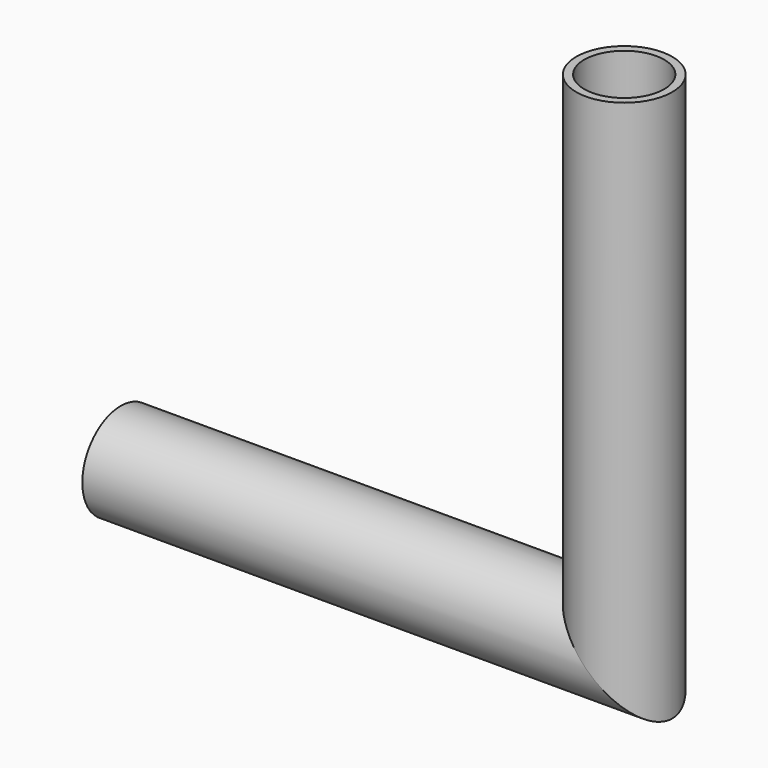
from build123d import *

# Parameters (mm, degrees)
F0_R = 4.7625
F1_R = 3.96875


with BuildPart() as f3:
    # F3: sweep along a path in F2
    with BuildLine(Plane.XZ) as f3_path:
        Line((0, 0), (50, 0))
        Line((50, 0), (50, 50))
    # F0 (on Right) → F3 (sweep)
    with BuildSketch(Plane.YZ):
        Circle(F0_R)
    sweep(path=f3_path.line, transition=Transition.RIGHT)

    # F4: sweep along a path in F2
    with BuildLine(Plane.XZ) as f4_path:
        Line((0, 0), (50, 0))
        Line((50, 0), (50, 50))
    # F1 (on Right) → F4 (sweep, cut)
    with BuildSketch(Plane.YZ):
        Circle(F1_R)
    sweep(path=f4_path.line, transition=Transition.RIGHT, mode=Mode.SUBTRACT)


solid = f3.part
